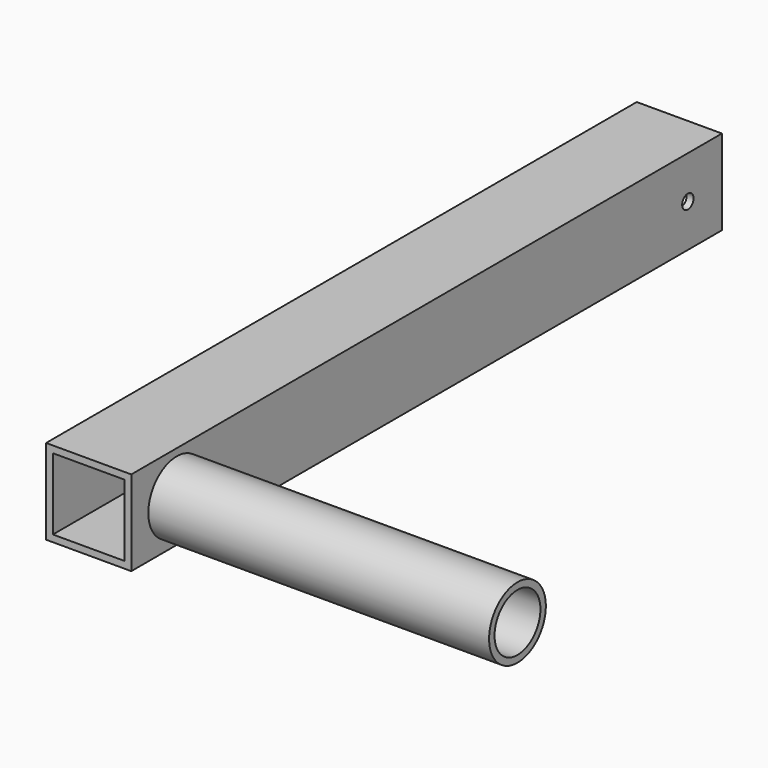
from build123d import *

# Parameters (mm, degrees)
F0_W     = 38.1
F0_H     = 38.1
F0_W_2   = 32.004
F0_H_2   = 32.004
F1_DEPTH = 330.2
F2_R     = 15.875
F2_R_2   = 12.827
F3_DEPTH = 152.4
F4_R     = 3.175
F5_DEPTH = 38.101


with BuildPart() as f1:
    # F0 (on Front) → F1 (new body)
    with BuildSketch(Plane.XZ):
        Rectangle(F0_W, F0_H)
        Rectangle(F0_W_2, F0_H_2, mode=Mode.SUBTRACT)
    extrude(amount=F1_DEPTH)

    # F2 (on face) → F3 (join)
    with BuildSketch(Plane.YZ.offset(19.05)):
        with Locations((-304.8, 0)):
            Circle(F2_R)
        with Locations((-304.8, 0)):
            Circle(F2_R_2, mode=Mode.SUBTRACT)
    extrude(amount=F3_DEPTH)

    # F4 (on face) → F5 (cut, through all)
    with BuildSketch(Plane.YZ.offset(19.05)):
        with Locations((-19.05, 0)):
            Circle(F4_R)
    extrude(amount=-F5_DEPTH, mode=Mode.SUBTRACT)


solid = f1.part
